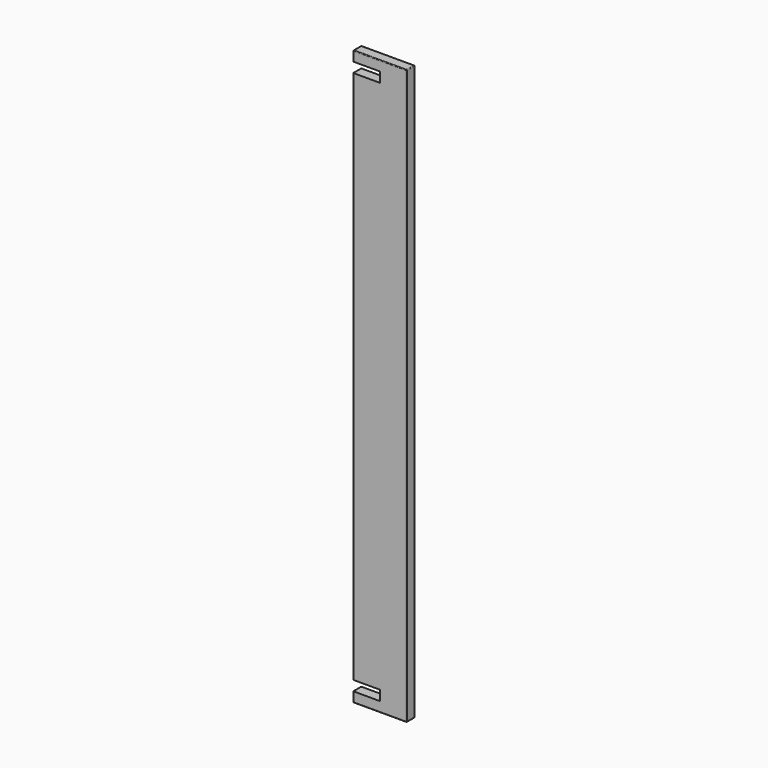
from build123d import *

# Parameters (mm, degrees)
F0_W     = 160
F0_H     = 30
F1_DEPTH = 860
F2_R     = 2
F3_W     = 2
F3_H     = 30
F3_W_2   = 78
F4_DEPTH = 30.001


with BuildPart() as f1:
    # F0 (on Top) → F1 (new body, symmetric)
    with BuildSketch(Plane.XY):
        Rectangle(F0_W, F0_H)
    extrude(amount=F1_DEPTH, both=True)

    # F2
    f2_edges = [f1.edges().sort_by_distance(p)[0] for p in [
        (0, -15, -860),
        (80, -15, 0),
        (0, -15, 860),
        (-80, -15, 0),
        (80, 0, -860),
        (80, 15, 0),
        (80, 0, 860),
        (0, 15, 860),
        (-80, 0, 860),
        (0, 15, -860),
        (-80, 15, 0),
        (-80, 0, -860),
    ]]
    fillet(f2_edges, radius=F2_R)

    # F3 (on face) → F4 (cut, through all)
    with BuildSketch(Plane.XZ.offset(15)):
        with Locations((-79, -815)):
            Rectangle(F3_W, F3_H)
        with Locations((-39, -815)):
            Rectangle(F3_W_2, F3_H)
        with Locations((-79, 815)):
            Rectangle(F3_W, F3_H)
        with Locations((-39, 815)):
            Rectangle(F3_W_2, F3_H)
    extrude(amount=-F4_DEPTH, mode=Mode.SUBTRACT)


solid = f1.part
